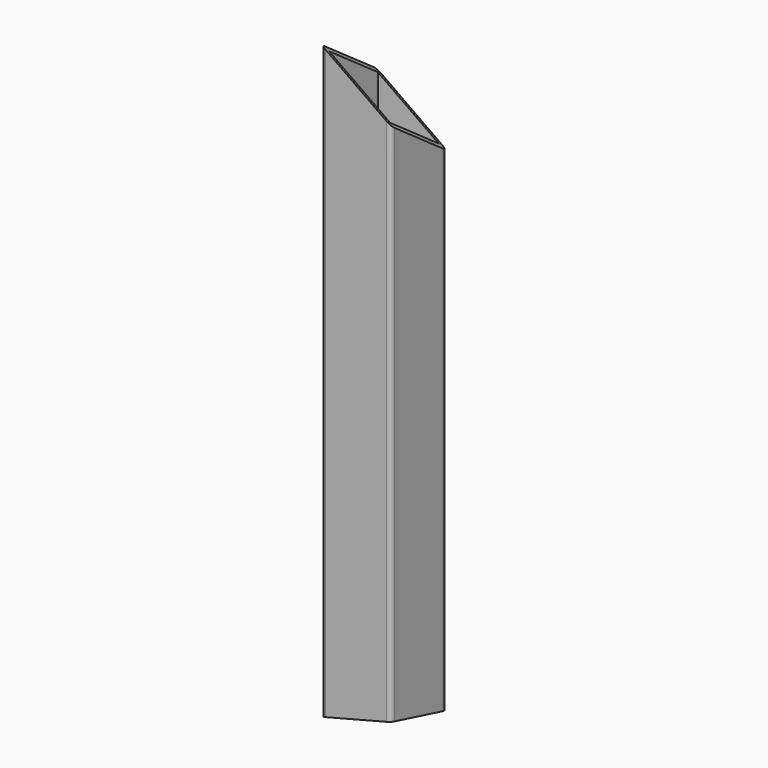
from build123d import *

# Parameters (mm, degrees)
F0_W          = 44.45
F0_H          = 44.45
F1_DEPTH      = 457.2
F5_DEPTH      = 25.4
F5_DEPTH_BACK = 24.638
F8_W          = 152.4
F8_H          = 152.4
F9_DEPTH      = 24.638
F9_DEPTH_BACK = 25.4


with BuildPart() as f1:
    # F0 (on Top) → F1 (new body)
    with BuildSketch(Plane.XY):
        with BuildLine():
            ThreePointArc((25.4, 22.225), (24.4700640303, 24.4700640303), (22.225, 25.4))
            Line((22.225, 25.4), (-22.225, 25.4))
            ThreePointArc((-22.225, 25.4), (-24.4700640303, 24.4700640303), (-25.4, 22.225))
            Line((-25.4, 22.225), (-25.4, -22.225))
            ThreePointArc((-25.4, -22.225), (-24.4700640303, -24.4700640303), (-22.225, -25.4))
            Line((-22.225, -25.4), (22.225, -25.4))
            ThreePointArc((22.225, -25.4), (24.4700640303, -24.4700640303), (25.4, -22.225))
            Line((25.4, -22.225), (25.4, 22.225))
        make_face()
        Rectangle(F0_W, F0_H, mode=Mode.SUBTRACT)
    extrude(amount=F1_DEPTH)

    # F4 (on face) → F5 (cut, two sides)
    with BuildSketch(Plane(origin=(161.6446101792, 161.6446101792, 228.6), x_dir=(0.8660254038, -0.2886751346, -0.4082482905), z_dir=(-0.5, -0.5, -0.7071067812))) as f5_sk:
        Polygon((-110.453744999, 187.8757004726), (-186.653744999, 264.0757004726), (-262.853744999, 340.2757004726), (-262.853744999, 187.8757004726), align=None)
        Polygon((-262.853744999, 340.2757004726), (-186.653744999, 264.0757004726), (-110.453744999, 187.8757004726), (-110.453744999, 340.2757004726), align=None)
    extrude(amount=-F5_DEPTH, mode=Mode.SUBTRACT)
    extrude(f5_sk.sketch, amount=F5_DEPTH_BACK, mode=Mode.SUBTRACT)

    # F8 (on face) → F9 (cut, two sides)
    with BuildSketch(Plane(origin=(0, 0, 0), x_dir=(0.9703149544, 0.0602782519, 0.2342123429), z_dir=(0.2418447626, -0.2418447626, -0.9396926208))) as f9_sk:
        Rectangle(F8_W, F8_H)
    extrude(amount=-F9_DEPTH, mode=Mode.SUBTRACT)
    extrude(f9_sk.sketch, amount=F9_DEPTH_BACK, mode=Mode.SUBTRACT)


solid = f1.part
